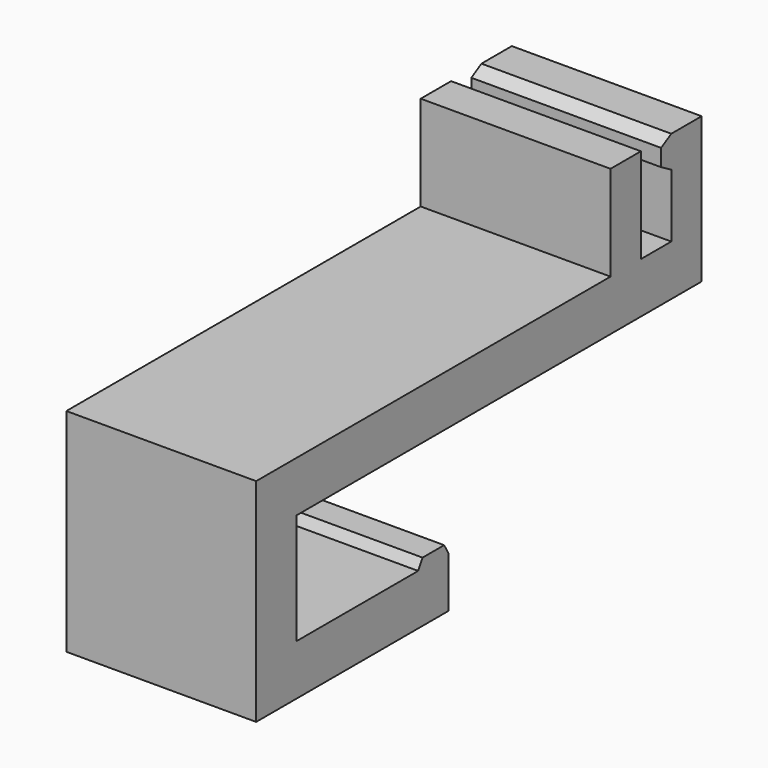
from build123d import *

# Parameters (mm, degrees)
F1_DEPTH = 30


with BuildPart() as f1:
    # F0 (on Right) → F1 (new body)
    with BuildSketch(Plane.YZ):
        Polygon((0, 33.5), (0, 0), (38, 0), (38, 8), (37.133975, 9.5), (32.866025, 9.5), (32, 8), (8, 8), (8, 25.5), (88, 25.5), (88, 48.5), (82, 48.5), (80, 47.345299), (80, 44.654701), (82, 43.5), (82, 33.5), (76, 33.5), (76, 48.5), (70, 48.5), (70, 33.5), align=None)
    extrude(amount=F1_DEPTH)


solid = f1.part
